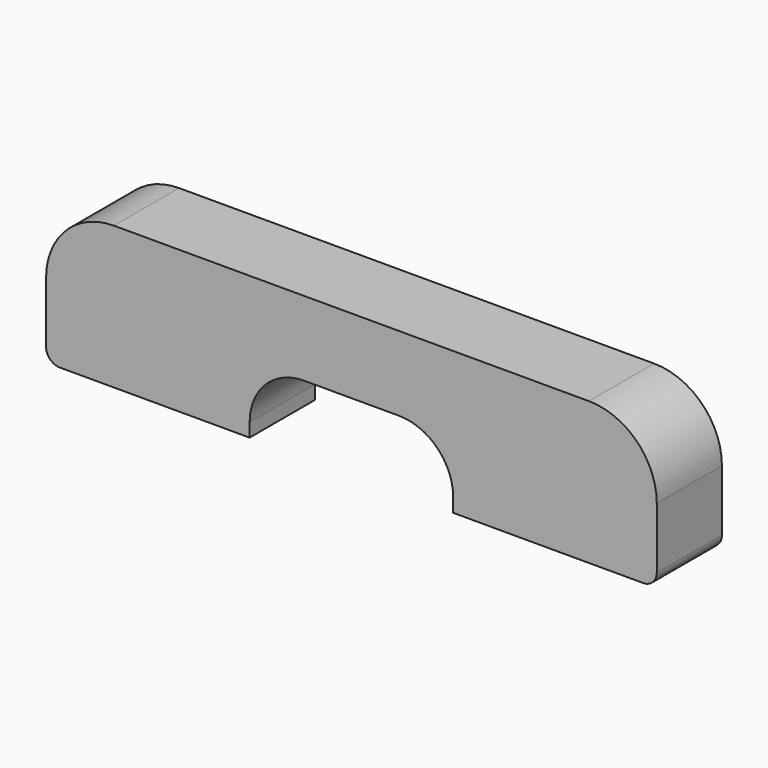
from build123d import *

# Parameters (mm, degrees)
F1_DEPTH = 12


with BuildPart() as f1:
    # F0 (on Front) → F1 (new body)
    with BuildSketch(Plane.XZ):
        with BuildLine():
            Line((80, 0), (10, 0))
            ThreePointArc((10, 0), (2.928932, -2.928932), (0, -10))
            Line((0, -10), (0, -19))
            ThreePointArc((0, -19), (0.585786, -20.414214), (2, -21))
            Line((2, -21), (30, -21))
            Line((30, -21), (30, -19))
            ThreePointArc((30, -19), (32.343146, -13.343146), (38, -11))
            Line((38, -11), (52, -11))
            ThreePointArc((52, -11), (57.656854, -13.343146), (60, -19))
            Line((60, -19), (60, -21))
            Line((60, -21), (88, -21))
            ThreePointArc((88, -21), (89.414214, -20.414214), (90, -19))
            Line((90, -19), (90, -10))
            ThreePointArc((90, -10), (87.071068, -2.928932), (80, 0))
        make_face()
    extrude(amount=F1_DEPTH)


solid = f1.part
